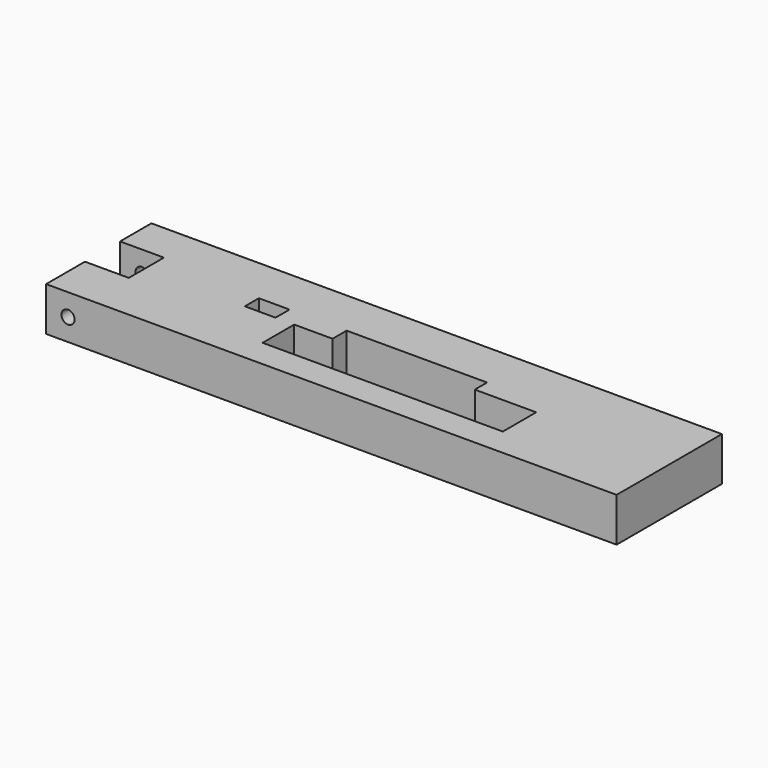
from build123d import *

# Parameters (mm, degrees)
F0_W     = 7
F0_H     = 4
F1_DEPTH = 10
F3_D     = 3


with BuildPart() as f1:
    # F0 (on Top) → F1 (new body)
    with BuildSketch(Plane.XY):
        Polygon((43, 15), (-43, 15), (-65, 15), (-65, 6.066413), (-55, 6.066413), (-55, -3.933587), (-65, -3.933587), (-65, -15), (-43, -15), (43, -15), (65, -15), (65, 15), align=None)
        Polygon((-20.780745, 0.403846), (-12.041581, 0.403846), (-12.041581, 4.403846), (19.958419, 4.403846), (19.958419, 0.903846), (33.958419, 0.903846), (33.958419, -8.596154), (-20.780745, -8.596154), align=None, mode=Mode.SUBTRACT)
        with Locations((-28.541581, 2.403846)):
            Rectangle(F0_W, F0_H, mode=Mode.SUBTRACT)
    extrude(amount=F1_DEPTH)

    # F3 (through all)
    with Locations(Plane.XZ.offset(15)):
        with Locations((-60, 5)):
            Hole(F3_D / 2)


solid = f1.part
